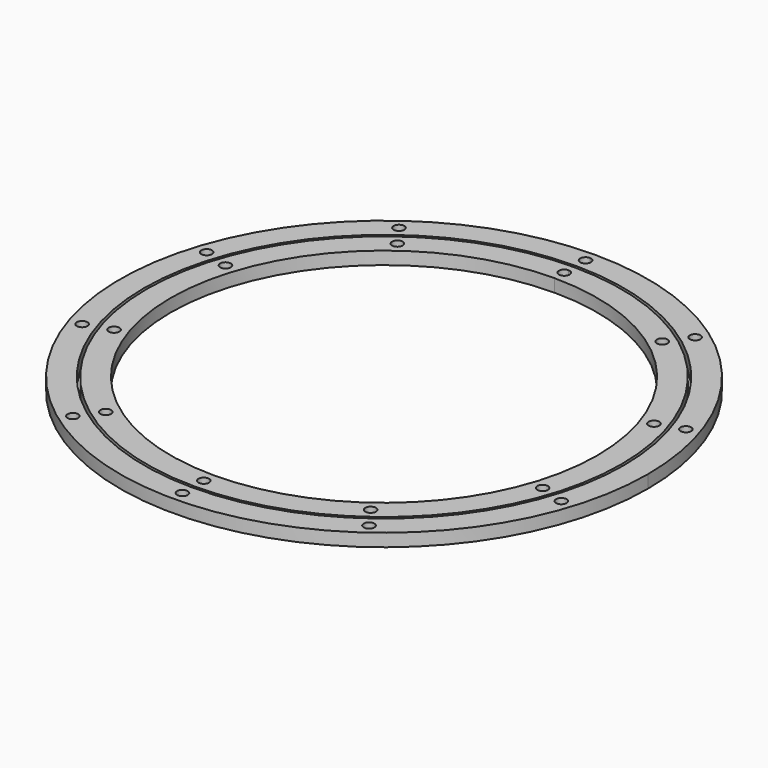
from build123d import *

# Parameters (mm, degrees)
F0_R     = 5
F1_DEPTH = 12


with BuildPart() as f1:
    # F0 (on Top) → F1 (new body)
    with BuildSketch(Plane.XY):
        with BuildLine():
            ThreePointArc((247.5, 0), (175.008928, 175.008928), (0, 247.5))
            ThreePointArc((0, 247.5), (-175.008928, -175.008928), (247.5, 0))
        make_face()
        with Locations((-138.864266, -191.130265)):
            Circle(F0_R, mode=Mode.SUBTRACT)
        with Locations((-224.687102, -73.005265)):
            Circle(F0_R, mode=Mode.SUBTRACT)
        with Locations((0, -236.25)):
            Circle(F0_R, mode=Mode.SUBTRACT)
        with Locations((138.864266, -191.130265)):
            Circle(F0_R, mode=Mode.SUBTRACT)
        with Locations((224.687102, -73.005265)):
            Circle(F0_R, mode=Mode.SUBTRACT)
        with Locations((-224.687102, 73.005265)):
            Circle(F0_R, mode=Mode.SUBTRACT)
        with Locations((-138.864266, 191.130265)):
            Circle(F0_R, mode=Mode.SUBTRACT)
        with BuildLine():
            ThreePointArc((225, 0), (-159.099026, -159.099026), (0, 225))
            ThreePointArc((0, 225), (159.099026, 159.099026), (225, 0))
        make_face(mode=Mode.SUBTRACT)
        with Locations((224.687102, 73.005265)):
            Circle(F0_R, mode=Mode.SUBTRACT)
        with BuildLine():
            ThreePointArc((5, 236.25), (3.535534, 232.714466), (0, 231.25))
            ThreePointArc((0, 231.25), (-5, 236.25), (0, 241.25))
            ThreePointArc((0, 241.25), (3.535534, 239.785534), (5, 236.25))
        make_face(mode=Mode.SUBTRACT)
        with Locations((138.864266, 191.130265)):
            Circle(F0_R, mode=Mode.SUBTRACT)
        with BuildLine():
            ThreePointArc((222.5, 0), (157.331259, 157.331259), (0, 222.5))
            ThreePointArc((0, 222.5), (-157.331259, -157.331259), (222.5, 0))
        make_face()
        with Locations((-124.169635, -170.90484)):
            Circle(F0_R, mode=Mode.SUBTRACT)
        with Locations((-200.910689, -65.27984)):
            Circle(F0_R, mode=Mode.SUBTRACT)
        with Locations((0, -211.25)):
            Circle(F0_R, mode=Mode.SUBTRACT)
        with Locations((124.169635, -170.90484)):
            Circle(F0_R, mode=Mode.SUBTRACT)
        with Locations((200.910689, -65.27984)):
            Circle(F0_R, mode=Mode.SUBTRACT)
        with Locations((-200.910689, 65.27984)):
            Circle(F0_R, mode=Mode.SUBTRACT)
        with Locations((-124.169635, 170.90484)):
            Circle(F0_R, mode=Mode.SUBTRACT)
        with BuildLine():
            ThreePointArc((0, 200), (141.421356, 141.421356), (200, 0))
            ThreePointArc((200, 0), (-141.421356, -141.421356), (0, 200))
        make_face(mode=Mode.SUBTRACT)
        with Locations((200.910689, 65.27984)):
            Circle(F0_R, mode=Mode.SUBTRACT)
        with BuildLine():
            ThreePointArc((5, 211.25), (3.535534, 207.714466), (0, 206.25))
            ThreePointArc((0, 206.25), (-5, 211.25), (0, 216.25))
            ThreePointArc((0, 216.25), (3.535534, 214.785534), (5, 211.25))
        make_face(mode=Mode.SUBTRACT)
        with Locations((124.169635, 170.90484)):
            Circle(F0_R, mode=Mode.SUBTRACT)
    extrude(amount=F1_DEPTH)


solid = f1.part
